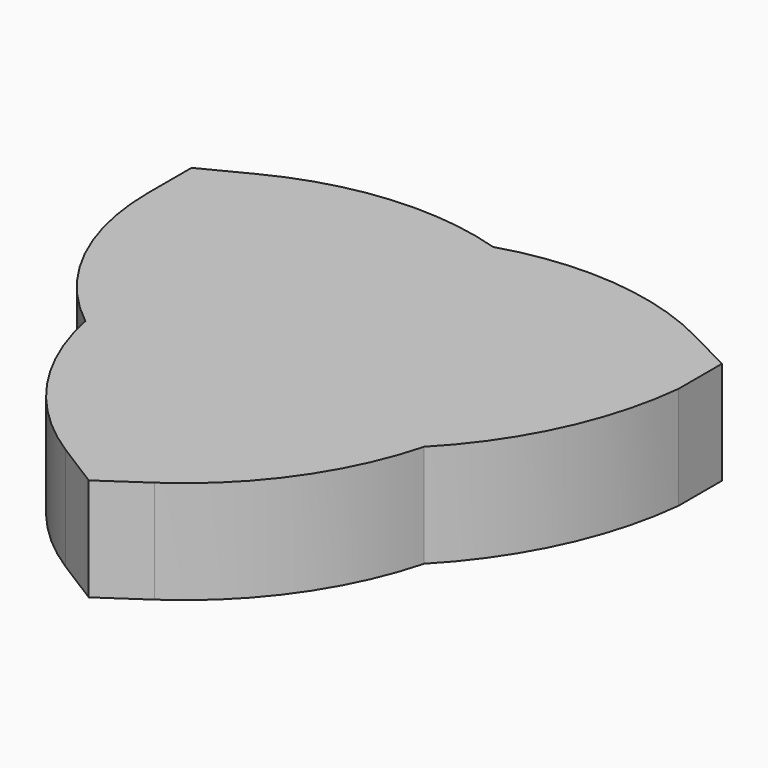
from build123d import *

# Parameters (mm, degrees)
F1_DEPTH = 4.7625


with BuildPart() as f1:
    # F0 (on Top) → F1 (new body)
    with BuildSketch(Plane.XY):
        with BuildLine():
            ThreePointArc((0, 9.117891), (-5.189841, 9.689006), (-10.209356, 8.251961))
            Line((-10.209356, 8.251961), (-12.369341, 7.146457))
            Line((-12.369341, 7.146457), (-12.369341, 4.638605))
            ThreePointArc((-12.369341, 4.638605), (-11.185748, -0.503205), (-7.873208, -4.610051))
            ThreePointArc((-7.873208, -4.610051), (-5.859185, -9.348483), (-2.140938, -12.909897))
            Line((-2.140938, -12.909897), (0, -14.256157))
            Line((0, -14.256157), (1.969674, -12.909897))
            ThreePointArc((1.969674, -12.909897), (5.637264, -9.298956), (7.81588, -4.635937))
            ThreePointArc((7.81588, -4.635937), (10.7633, -0.362437), (12.15602, 4.638605))
            Line((12.15602, 4.638605), (12.15602, 7.146457))
            Line((12.15602, 7.146457), (9.996034, 8.251961))
            ThreePointArc((9.996034, 8.251961), (5.082776, 9.663363), (0, 9.117891))
        make_face()
    extrude(amount=F1_DEPTH)


solid = f1.part
